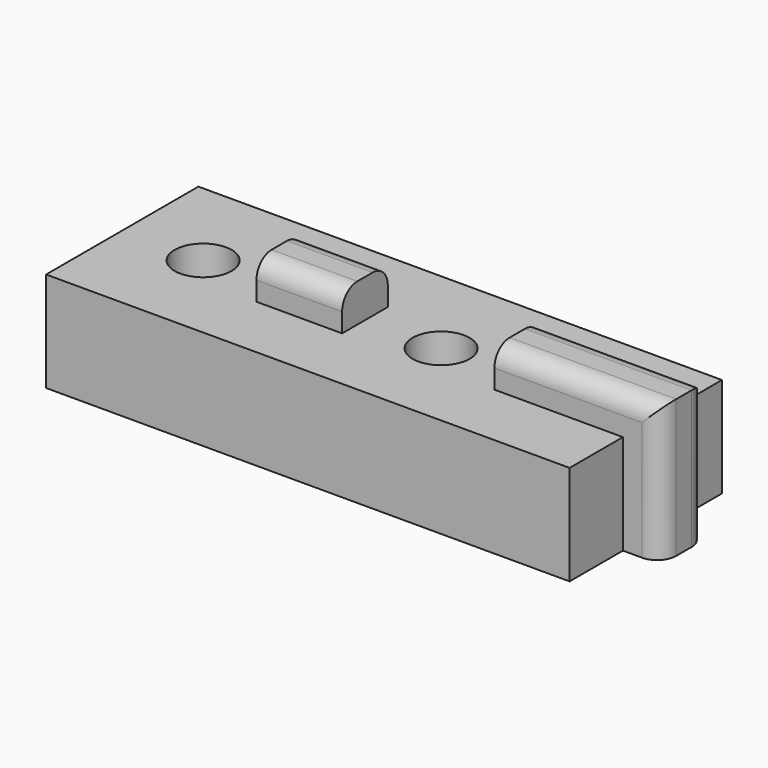
from build123d import *

# Parameters (mm, degrees)
F0_R     = 3
F0_W     = 9
F0_H     = 6
F0_W_2   = 4
F0_W_3   = 13.5
F1_DEPTH = 10.5
F2_DEPTH = 4
F3_R     = 2


with BuildPart() as f1:
    # F0 (on Top) → F1 (new body)
    with BuildSketch(Plane.XY):
        Polygon((27.5, 10), (-27.5, 10), (-27.5, -10), (27.5, -10), (27.5, -3), (14, -3), (14, 3), (27.5, 3), align=None)
        with Locations((-19, 0)):
            Circle(F0_R, mode=Mode.SUBTRACT)
        with Locations((-6.5, 0)):
            Rectangle(F0_W, F0_H, mode=Mode.SUBTRACT)
        with Locations((6, 0)):
            Circle(F0_R, mode=Mode.SUBTRACT)
        with Locations((29.5, 0)):
            Rectangle(F0_W_2, F0_H)
        with Locations((20.75, 0)):
            Rectangle(F0_W_3, F0_H)
        with Locations((-6.5, 0)):
            Rectangle(F0_W, F0_H)
    extrude(amount=-F1_DEPTH)

    # F0 (on Top) → F2 (join)
    with BuildSketch(Plane.XY):
        with Locations((20.75, 0)):
            Rectangle(F0_W_3, F0_H)
        with Locations((29.5, 0)):
            Rectangle(F0_W_2, F0_H)
        with Locations((-6.5, 0)):
            Rectangle(F0_W, F0_H)
    extrude(amount=F2_DEPTH)

    # F3
    f3_edges = [f1.edges().sort_by_distance(p)[0] for p in [
        (22.75, -3, 4),
        (22.75, 3, 4),
        (31.5, 3, -3.25),
        (31.5, -3, -3.25),
        (-6.5, 3, 4),
        (-6.5, -3, 4),
    ]]
    fillet(f3_edges, radius=F3_R)


solid = f1.part
